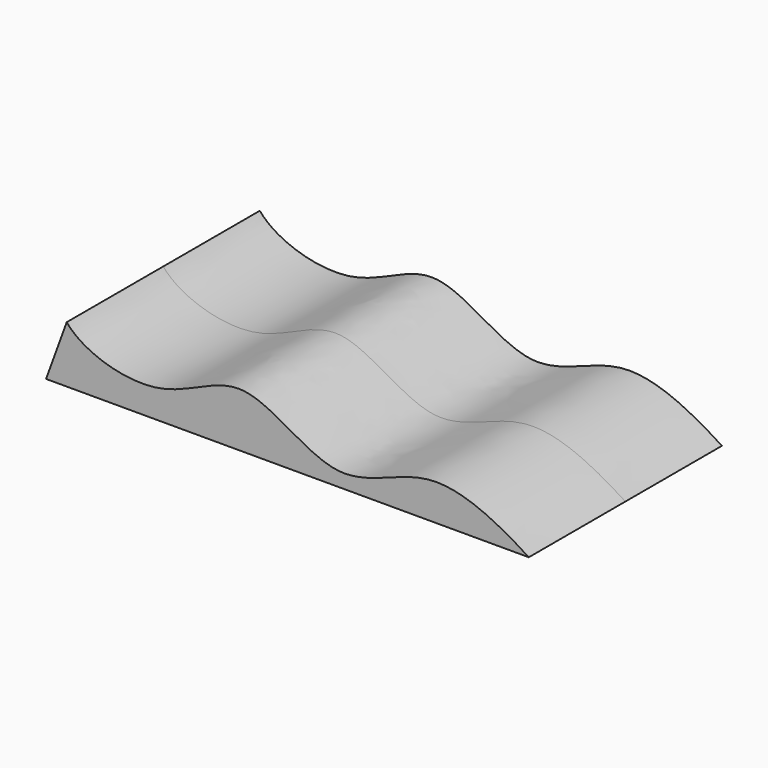
from build123d import *

# Parameters (mm, degrees)
F1_DEPTH = 600


with BuildPart() as f1:
    # F0 (on Front) → F1 (new body, symmetric)
    with BuildSketch(Plane.XZ):
        with BuildLine():
            Line((-1232.1152882797, 0), (1167.8847117203, 0))
            add(Edge.make_bspline(
                [(-1129.509245282, 281.9077862358), (-1049.0289175024, 182.5764190535), (-645.0961858093, 48.9507203732), (-255.4399360913, 404.0071831934), (217.0472236333, -65.3834660024), (673.9535187912, 285.7308804865), (1022.1761642553, 93.2462057894), (1167.8847117203, 0)],
                knots=[0, 0, 0, 0, 0.1979862335, 0.3895646973, 0.5947874727, 0.792075165, 1, 1, 1, 1], degree=3))
            Line((-1129.509245282, 281.9077862358), (-1232.1152882797, 0))
        make_face()
    extrude(amount=F1_DEPTH, both=True)


solid = f1.part
